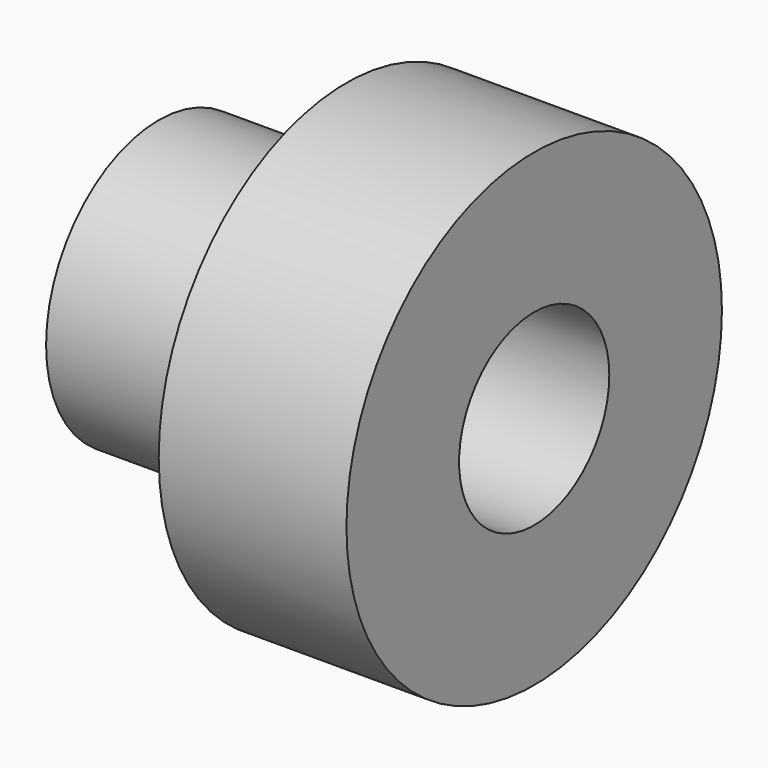
from build123d import *

# Parameters (mm, degrees)
F0_R      = 19.05
F0_R_2    = 12.7
F1_DEPTH  = 25.4
F2_R      = 31.75
F3_DEPTH  = 25.4
F3_FACE_R = 12.7
F4_DEPTH  = 25.4


with BuildPart() as f1:
    # F0 (on Right) → F1 (new body)
    with BuildSketch(Plane.YZ):
        Circle(F0_R)
        Circle(F0_R_2, mode=Mode.SUBTRACT)
    extrude(amount=-F1_DEPTH)

    # F2 (on Right) → F3 (join)
    with BuildSketch(Plane.YZ):
        Circle(F2_R)
    extrude(amount=F3_DEPTH)

    # F3_face (on face) → F4 (cut)
    with BuildSketch(Plane(origin=(0, 0, 0), x_dir=(0, 1, 0), z_dir=(-1, 0, 0))):
        Circle(F3_FACE_R)
    extrude(amount=-F4_DEPTH, mode=Mode.SUBTRACT)


solid = f1.part
